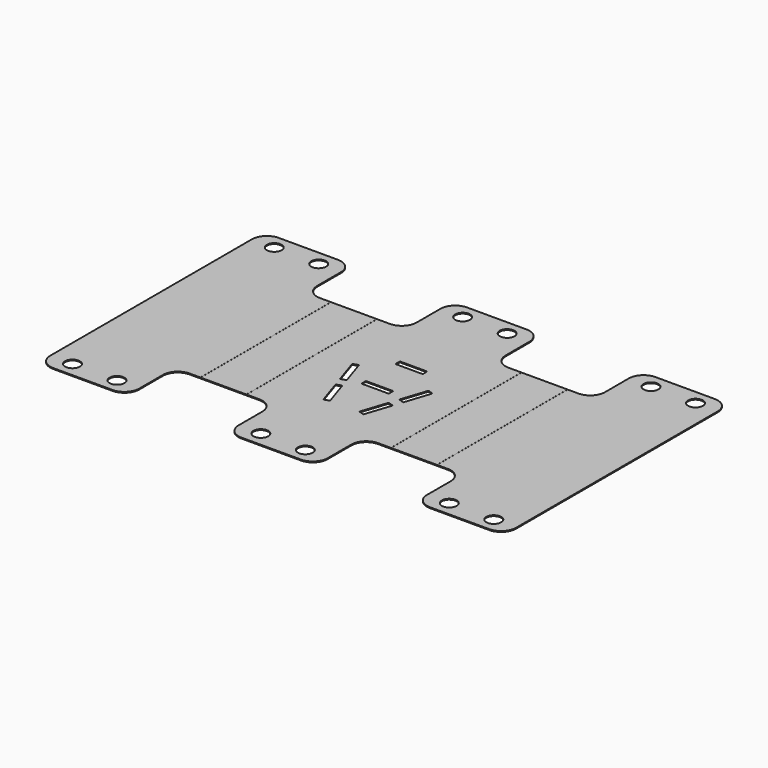
from build123d import *

# Parameters (mm, degrees)
F0_R     = 2.5
F1_DEPTH = 25
F2_DEPTH = 25
F3_W     = 9.2
F3_H     = 1.9
F4_DEPTH = 25
F5_R     = 5
F7_DEPTH = 40
F8_W     = 165.974393075
F8_H     = 32.5776245729
F9_DEPTH = 97


with BuildPart() as f1:
    # F0 (on Top) → F1 (new body)
    with BuildSketch(Plane.XY):
        Polygon((15, 47.5), (-15, 47.5), (-15, 27.5), (-48.5, 27.5), (-48.5, 47.5), (-78.5, 47.5), (-78.5, -47.5), (-48.5, -47.5), (-48.5, -27.5), (-15, -27.5), (-15, -47.5), (15, -47.5), (15, -27.5), (48.5, -27.5), (48.5, -47.5), (78.5, -47.5), (78.5, 47.5), (48.5, 47.5), (48.5, 27.5), (15, 27.5), align=None)
        with Locations((-71, -42.5)):
            Circle(F0_R, mode=Mode.SUBTRACT)
        with Locations((-56, -42.5)):
            Circle(F0_R, mode=Mode.SUBTRACT)
        with Locations((-7.5, -42.5)):
            Circle(F0_R, mode=Mode.SUBTRACT)
        with Locations((7.5, -42.5)):
            Circle(F0_R, mode=Mode.SUBTRACT)
        with Locations((56, -42.5)):
            Circle(F0_R, mode=Mode.SUBTRACT)
        with Locations((71, -42.5)):
            Circle(F0_R, mode=Mode.SUBTRACT)
        with Locations((-71, 42.5)):
            Circle(F0_R, mode=Mode.SUBTRACT)
        with Locations((-56, 42.5)):
            Circle(F0_R, mode=Mode.SUBTRACT)
        with Locations((-7.5, 42.5)):
            Circle(F0_R, mode=Mode.SUBTRACT)
        with Locations((7.5, 42.5)):
            Circle(F0_R, mode=Mode.SUBTRACT)
        with Locations((56, 42.5)):
            Circle(F0_R, mode=Mode.SUBTRACT)
        with Locations((71, 42.5)):
            Circle(F0_R, mode=Mode.SUBTRACT)
    extrude(amount=F1_DEPTH)

    # F0 (on Top) → F2 (cut)
    with BuildSketch(Plane.XY):
        Polygon((15, 47.5), (-15, 47.5), (-15, 27.5), (-48.5, 27.5), (-48.5, 47.5), (-78.5, 47.5), (-78.5, -47.5), (-48.5, -47.5), (-48.5, -27.5), (-15, -27.5), (-15, -47.5), (15, -47.5), (15, -27.5), (48.5, -27.5), (48.5, -47.5), (78.5, -47.5), (78.5, 47.5), (48.5, 47.5), (48.5, 27.5), (15, 27.5), align=None)
        with Locations((-71, -42.5)):
            Circle(F0_R, mode=Mode.SUBTRACT)
        with Locations((-56, -42.5)):
            Circle(F0_R, mode=Mode.SUBTRACT)
        with Locations((-7.5, -42.5)):
            Circle(F0_R, mode=Mode.SUBTRACT)
        with Locations((7.5, -42.5)):
            Circle(F0_R, mode=Mode.SUBTRACT)
        with Locations((56, -42.5)):
            Circle(F0_R, mode=Mode.SUBTRACT)
        with Locations((71, -42.5)):
            Circle(F0_R, mode=Mode.SUBTRACT)
        with Locations((-71, 42.5)):
            Circle(F0_R, mode=Mode.SUBTRACT)
        with Locations((-56, 42.5)):
            Circle(F0_R, mode=Mode.SUBTRACT)
        with Locations((-7.5, 42.5)):
            Circle(F0_R, mode=Mode.SUBTRACT)
        with Locations((7.5, 42.5)):
            Circle(F0_R, mode=Mode.SUBTRACT)
        with Locations((56, 42.5)):
            Circle(F0_R, mode=Mode.SUBTRACT)
        with Locations((71, 42.5)):
            Circle(F0_R, mode=Mode.SUBTRACT)
    extrude(amount=-F2_DEPTH, mode=Mode.SUBTRACT)

    # F3 (on face) → F4 (cut)
    with BuildSketch(Plane.XY.offset(25)):
        with Locations((0, 11.5)):
            Rectangle(F3_W, F3_H)
        with Locations((0, -2.8)):
            Rectangle(F3_W, F3_H)
        Polygon((-8.8533070383, -4.6304771843), (-11.71855, 4.11197), (-13.5240553968, 3.5202350405), (-10.658812435, -5.2222121438), align=None)
        Polygon((-6.7587246898, -17.1221841819), (-4.953219293, -16.5304492224), (-7.8184622548, -7.7880020381), (-9.6239676515, -8.3797369976), align=None)
        Polygon((13.5240553968, 3.5202350405), (11.71855, 4.11197), (8.8533070383, -4.6304771843), (10.658812435, -5.2222121438), align=None)
        Polygon((7.8184622548, -7.7880020381), (4.953219293, -16.5304492224), (6.7587246898, -17.1221841819), (9.6239676515, -8.3797369976), align=None)
    extrude(amount=-F4_DEPTH, mode=Mode.SUBTRACT)

    # F5
    f5_edges = [f1.edges().sort_by_distance(p)[0] for p in [
        (-48.5, 47.5, 12.5),
        (-48.5, 27.5, 12.5),
        (15, 47.5, 12.5),
        (15, 27.5, 12.5),
        (78.5, 47.5, 12.5),
        (48.5, 47.5, 12.5),
        (-15, 47.5, 12.5),
        (48.5, 27.5, 12.5),
        (-15, 27.5, 12.5),
        (-78.5, 47.5, 12.5),
        (15, -27.5, 12.5),
        (15, -47.5, 12.5),
        (78.5, -47.5, 12.5),
        (-48.5, -27.5, 12.5),
        (-48.5, -47.5, 12.5),
        (48.5, -27.5, 12.5),
        (48.5, -47.5, 12.5),
        (-15, -27.5, 12.5),
        (-15, -47.5, 12.5),
        (-78.5, -47.5, 12.5),
    ]]
    fillet(f5_edges, radius=F5_R)

    # F6 (on Front) → F7 (cut, symmetric)
    with BuildSketch(Plane.XZ):
        Polygon((-38.85, 32.4957541127), (-40.85, 32.4957541127), (-39.85, 24.9), align=None)
        Polygon((39.85, 24.9), (40.85, 32.4957541127), (38.85, 32.4957541127), align=None)
        Polygon((-23.35, 32.4957541127), (-25.35, 32.4957541127), (-24.35, 24.9), align=None)
        Polygon((24.35, 24.9), (25.35, 32.4957541127), (23.35, 32.4957541127), align=None)
    extrude(amount=F7_DEPTH, both=True, mode=Mode.SUBTRACT)

    # F8 (on face) → F9 (cut)
    with BuildSketch(Plane.XZ.offset(47.5)):
        with Locations((2.9871965375, 8.4111877136)):
            Rectangle(F8_W, F8_H)
    extrude(amount=-F9_DEPTH, mode=Mode.SUBTRACT)


solid = f1.part
